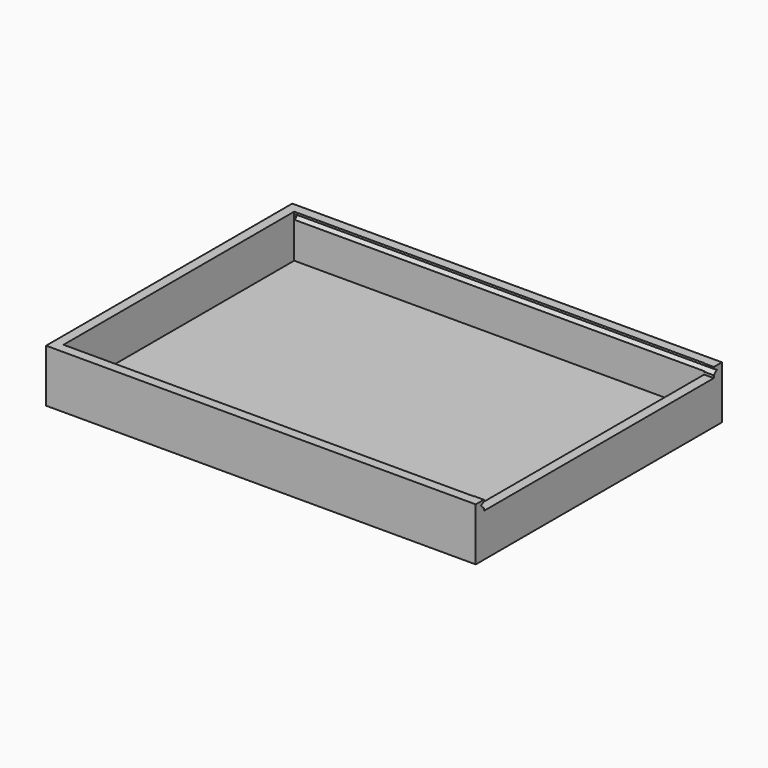
from build123d import *

# Parameters (mm, degrees)
F0_W     = 108.9
F0_H     = 76.3
F1_DEPTH = 15
F2_W     = 121.9
F2_H     = 87.3
F3_DEPTH = 15
F4_T     = -2.75
F7_DEPTH = 119


with BuildPart() as f1:
    # F0 (on Top) → F1 (new body)
    with BuildSketch(Plane.XY):
        Rectangle(F0_W, F0_H)
    extrude(amount=F1_DEPTH)

    # F2 (on Top) → F3 (join)
    with BuildSketch(Plane.XY):
        Rectangle(F2_W, F2_H)
    extrude(amount=F3_DEPTH)

    # F4
    f4_openings = [f1.faces().sort_by_distance(p)[0] for p in [
        (0, 0, 15),
    ]]
    offset(amount=F4_T, openings=f4_openings)

    # F6 (on face) → F7 (cut)
    with BuildSketch(Plane(origin=(60.95, 0, 0), x_dir=(0, -1, 0), z_dir=(-1, 0, 0))):
        Polygon((40.792018, 14.5), (40.792018, 15), (-40.792018, 15), (-40.792018, 14.5), (-41.829281, 13.878562), (-40.792018, 12.893027), (-40.792018, 12.20222), (40.792018, 12.20222), (40.792018, 12.893027), (41.829281, 13.878562), align=None)
    extrude(amount=F7_DEPTH, mode=Mode.SUBTRACT)


solid = f1.part
